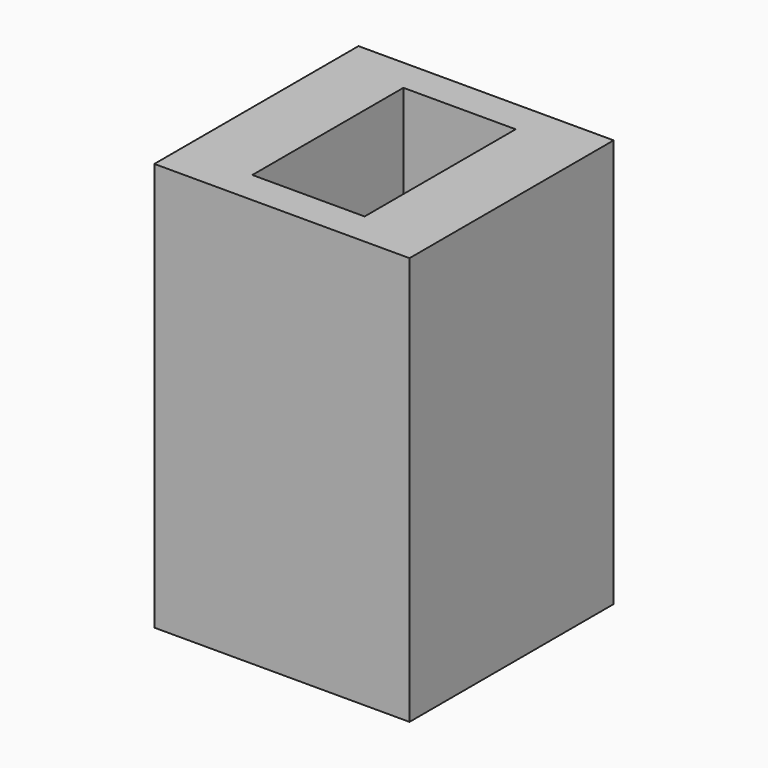
from build123d import *

# Parameters (mm, degrees)
F0_W     = 5
F0_H     = 5
F1_DEPTH = 5
F2_R     = 1.45
F3_DEPTH = 5.001
F4_W     = 5
F4_H     = 5
F4_W_2   = 2.2
F4_H_2   = 3.7
F5_DEPTH = 3
F6_DEPTH = 1


with BuildPart() as f1:
    # F0 (on Top) → F1 (new body)
    with BuildSketch(Plane.XY):
        Rectangle(F0_W, F0_H)
    extrude(amount=F1_DEPTH)

    # F2 (on face) → F3 (cut, through all)
    with BuildSketch(Plane.XY.offset(5)):
        Circle(F2_R)
    extrude(amount=-F3_DEPTH, mode=Mode.SUBTRACT)

    # F4 (on face) → F5 (join)
    with BuildSketch(Plane.XY.offset(5)):
        Rectangle(F4_W, F4_H)
        Rectangle(F4_W_2, F4_H_2, mode=Mode.SUBTRACT)
    extrude(amount=F5_DEPTH)

    # F4 (on face) → F6 (join)
    with BuildSketch(Plane.XY.offset(5)):
        Rectangle(F4_W, F4_H)
        with BuildLine():
            Line((1.1, -0.9447221814), (1.1, -1.85))
            Line((1.1, -1.85), (-1.1, -1.85))
            Line((-1.1, -1.85), (-1.1, -0.9447221814))
            ThreePointArc((-1.1, -0.9447221814), (-1.45, 0), (-1.1, 0.9447221814))
            Line((-1.1, 0.9447221814), (-1.1, 1.85))
            Line((-1.1, 1.85), (1.1, 1.85))
            Line((1.1, 1.85), (1.1, 0.9447221814))
            ThreePointArc((1.1, 0.9447221814), (1.3596874641, 0.503736042), (1.45, 0))
            ThreePointArc((1.45, 0), (1.3596874641, -0.503736042), (1.1, -0.9447221814))
        make_face(mode=Mode.SUBTRACT)
        with BuildLine():
            ThreePointArc((-1.1, 0.9447221814), (0, 1.45), (1.1, 0.9447221814))
            Line((1.1, 0.9447221814), (1.1, 1.85))
            Line((1.1, 1.85), (-1.1, 1.85))
            Line((-1.1, 1.85), (-1.1, 0.9447221814))
        make_face()
        with BuildLine():
            ThreePointArc((-1.1, 0.9447221814), (-1.45, 0), (-1.1, -0.9447221814))
            Line((-1.1, -0.9447221814), (-1.1, 0.9447221814))
        make_face()
        with BuildLine():
            ThreePointArc((-1.1, -0.9447221814), (0, -1.45), (1.1, -0.9447221814))
            Line((1.1, -0.9447221814), (1.1, 0.9447221814))
            ThreePointArc((1.1, 0.9447221814), (0, 1.45), (-1.1, 0.9447221814))
            Line((-1.1, 0.9447221814), (-1.1, -0.9447221814))
        make_face()
        with BuildLine():
            Line((1.1, 0.9447221814), (1.1, -0.9447221814))
            ThreePointArc((1.1, -0.9447221814), (1.3596874641, -0.503736042), (1.45, 0))
            ThreePointArc((1.45, 0), (1.3596874641, 0.503736042), (1.1, 0.9447221814))
        make_face()
        with BuildLine():
            Line((-1.1, -1.85), (1.1, -1.85))
            Line((1.1, -1.85), (1.1, -0.9447221814))
            ThreePointArc((1.1, -0.9447221814), (0, -1.45), (-1.1, -0.9447221814))
            Line((-1.1, -0.9447221814), (-1.1, -1.85))
        make_face()
    extrude(amount=-F6_DEPTH)


solid = f1.part
